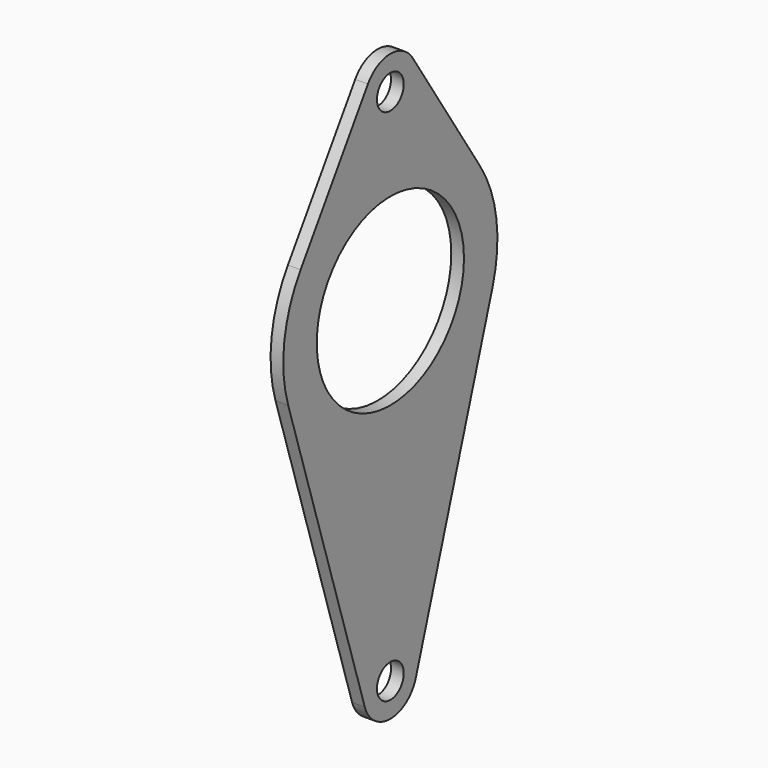
from build123d import *

# Parameters (mm, degrees)
F0_R     = 6.35
F0_R_2   = 34.925
F1_DEPTH = 4.826


with BuildPart() as f1:
    # F0 (on Right) → F1 (new body)
    with BuildSketch(Plane.YZ):
        with BuildLine():
            Line((-10.644383, 76.777273), (-42.577533, 27.709091))
            ThreePointArc((-42.577533, 27.709091), (-50.330103, 6.893529), (-48.460111, -15.24))
            Line((-48.460111, -15.24), (-12.115028, -130.81))
            ThreePointArc((-12.115028, -130.81), (0, -139.7), (12.115028, -130.81))
            Line((12.115028, -130.81), (48.460111, -15.24))
            ThreePointArc((48.460111, -15.24), (50.330103, 6.893529), (42.577533, 27.709091))
            Line((42.577533, 27.709091), (10.644383, 76.777273))
            ThreePointArc((10.644383, 76.777273), (0, 82.55), (-10.644383, 76.777273))
        make_face()
        with Locations((0, -127)):
            Circle(F0_R, mode=Mode.SUBTRACT)
        Circle(F0_R_2, mode=Mode.SUBTRACT)
        with Locations((0, 69.85)):
            Circle(F0_R, mode=Mode.SUBTRACT)
    extrude(amount=F1_DEPTH)


solid = f1.part
